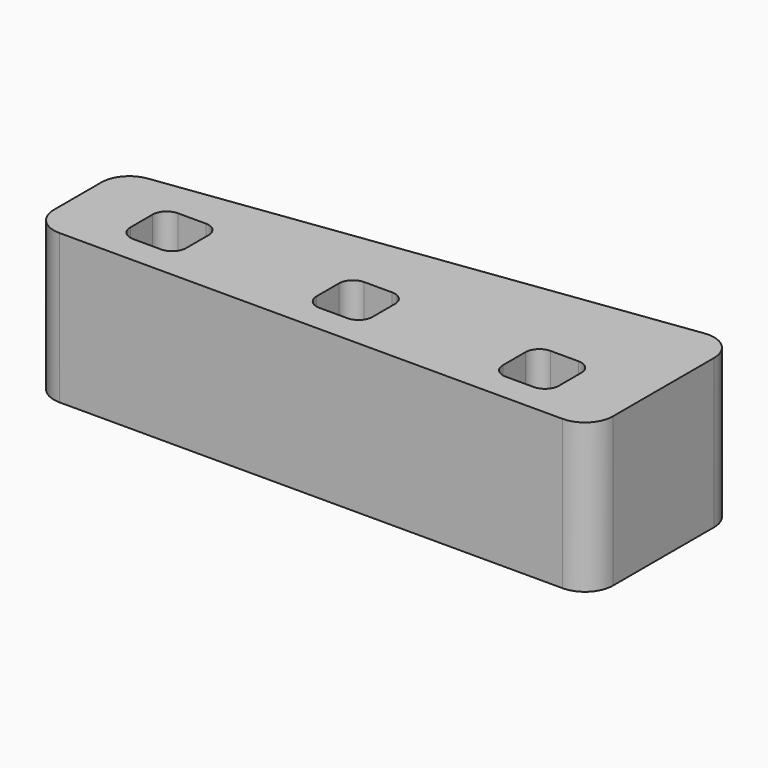
from build123d import *

# Parameters (mm, degrees)
F1_DEPTH = 8
F2_R     = 1.5
F3_W     = 3
F3_H     = 3
F4_DEPTH = 9
F5_R     = 0.75


with BuildPart() as f1:
    # F0 (on Top) → F1 (new body)
    with BuildSketch(Plane.XY):
        Polygon((0, 6), (0, 0), (30, 0), (30, 10), align=None)
    extrude(amount=F1_DEPTH)

    # F2
    f2_edges = [f1.edges().sort_by_distance(p)[0] for p in [
        (30, 0, 4),
        (0, 0, 4),
        (30, 10, 4),
        (0, 6, 4),
    ]]
    fillet(f2_edges, radius=F2_R)


with BuildPart() as f4:
    # F3 (on Top) → F4 (new body)
    with BuildSketch(Plane.XY):
        Rectangle(F3_W, F3_H)
    extrude(amount=F4_DEPTH)

    # F5
    f5_edges = [f4.edges().sort_by_distance(p)[0] for p in [
        (1.5, -1.5, 4.5),
        (-1.5, -1.5, 4.5),
        (1.5, 1.5, 4.5),
        (-1.5, 1.5, 4.5),
    ]]
    fillet(f5_edges, radius=F5_R)


with BuildPart() as f4_1:
    # F6: moved
    add(f4.part.moved(Location((25, 4, 0))))


with BuildPart() as f7_1:
    # F7: copy of F4
    add(f4_1.part)


with BuildPart() as f7_1_1:
    # F8: moved
    add(f7_1.part.moved(Location((-10, 0, 0))))


with BuildPart() as f9_1:
    # F9: copy of F7_1
    add(f7_1_1.part)


with BuildPart() as f9_1_1:
    # F10: moved
    add(f9_1.part.moved(Location((-10, 0, 0))))


with BuildPart() as f4_2:
    # F11: moved
    add(f4_1.part.moved(Location((0, -1, 0))))


with BuildPart() as f7_1_2:
    # F11: moved
    add(f7_1_1.part.moved(Location((0, -1, 0))))


with BuildPart() as f9_1_2:
    # F11: moved
    add(f9_1_1.part.moved(Location((0, -1, 0))))


with BuildPart() as f1_1:
    add(f1.part)

    # F12: cut F7_1, F4, F9_1
    add(f7_1_2.part, mode=Mode.SUBTRACT)
    add(f4_2.part, mode=Mode.SUBTRACT)
    add(f9_1_2.part, mode=Mode.SUBTRACT)


solid = f1_1.part
